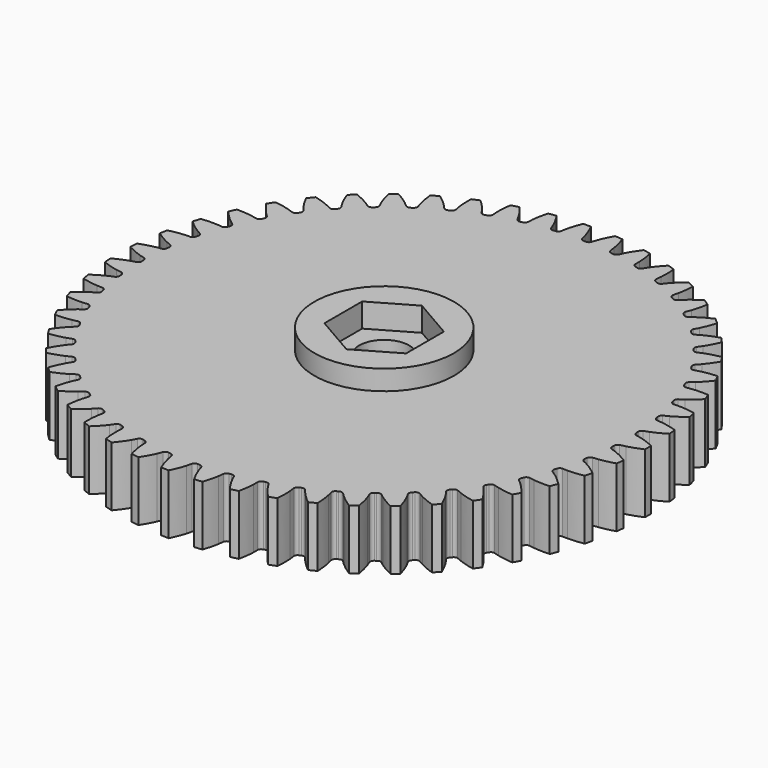
from build123d import *

# Parameters (mm, degrees)
PAD_DEPTH       = 6
SKETCH_R        = 7
PAD001_DEPTH    = 8
SKETCH001_R     = 2.5
POCKET_DEPTH    = 8.001
POCKET001_DEPTH = 2.4


with BuildPart() as part:
    # InvoluteGear → Pad (new body)
    with BuildSketch(Plane.XY):
        with BuildLine():
            add(Edge.make_bspline(
                [(24.477809, -1.042539), (24.623171, -1.01798), (24.796938, -0.982154), (24.997721, -0.930036)],
                knots=[0, 0, 0, 0, 1, 1, 1, 1], degree=3))
            add(Edge.make_bspline(
                [(24.997721, -0.930036), (25.39788, -0.826117), (25.903105, -0.658218), (26.497465, -0.388172)],
                knots=[0, 0, 0, 0, 1, 1, 1, 1], degree=3))
            ThreePointArc((26.497465, -0.388172), (26.500308, 0), (26.497465, 0.388172))
            add(Edge.make_bspline(
                [(26.497465, 0.388172), (25.903105, 0.658218), (25.39788, 0.826117), (24.997721, 0.930036)],
                knots=[0, 0, 0, 0, 1, 1, 1, 1], degree=3))
            add(Edge.make_bspline(
                [(24.997721, 0.930036), (24.796938, 0.982154), (24.623171, 1.01798), (24.477829, 1.042534)],
                knots=[0, 0, 0, 0, 1, 1, 1, 1], degree=3))
            ThreePointArc((24.477829, 1.042534), (24.284389, 1.177202), (24.209514, 1.400693))
            ThreePointArc((24.209514, 1.400693), (24.204006, 1.492852), (24.198147, 1.584989))
            ThreePointArc((24.198147, 1.584989), (24.244984, 1.815979), (24.420395, 1.973399))
            add(Edge.make_bspline(
                [(24.420395, 1.973399), (24.561638, 2.015635), (24.729685, 2.072543), (24.922541, 2.148941)],
                knots=[0, 0, 0, 0, 1, 1, 1, 1], degree=3))
            add(Edge.make_bspline(
                [(24.922541, 2.148941), (25.306897, 2.301247), (25.78766, 2.529959), (26.344329, 2.870998)],
                knots=[0, 0, 0, 0, 1, 1, 1, 1], degree=3))
            ThreePointArc((26.344329, 2.870998), (26.299449, 3.256578), (26.248926, 3.641458))
            add(Edge.make_bspline(
                [(26.248926, 3.641458), (25.625886, 3.836417), (25.103857, 3.940957), (24.69396, 3.994914)],
                knots=[0, 0, 0, 0, 1, 1, 1, 1], degree=3))
            add(Edge.make_bspline(
                [(24.69396, 3.994914), (24.488294, 4.021963), (24.311442, 4.036164), (24.164184, 4.042671)],
                knots=[0, 0, 0, 0, 1, 1, 1, 1], degree=3))
            ThreePointArc((24.164184, 4.042671), (23.955661, 4.152547), (23.853889, 4.365143))
            ThreePointArc((23.853889, 4.365143), (23.837098, 4.455926), (23.819961, 4.546645))
            ThreePointArc((23.819961, 4.546645), (23.838057, 4.781639), (23.992793, 4.959422))
            add(Edge.make_bspline(
                [(23.992793, 4.959422), (24.127775, 5.018695), (24.287555, 5.095823), (24.469562, 5.195341)],
                knots=[0, 0, 0, 0, 1, 1, 1, 1], degree=3))
            add(Edge.make_bspline(
                [(24.469562, 5.195341), (24.832287, 5.393726), (25.2813, 5.679785), (25.791841, 6.086647)],
                knots=[0, 0, 0, 0, 1, 1, 1, 1], degree=3))
            ThreePointArc((25.791841, 6.086647), (25.699918, 6.463789), (25.60248, 6.839543))
            add(Edge.make_bspline(
                [(25.60248, 6.839543), (24.960204, 6.95646), (24.429285, 6.996057), (24.015865, 6.999233)],
                knots=[0, 0, 0, 0, 1, 1, 1, 1], degree=3))
            add(Edge.make_bspline(
                [(24.015865, 6.999233), (23.808433, 7.000804), (23.631176, 6.993163), (23.484235, 6.981525)],
                knots=[0, 0, 0, 0, 1, 1, 1, 1], degree=3))
            ThreePointArc((23.484235, 6.981525), (23.26379, 7.064943), (23.136664, 7.263421))
            ThreePointArc((23.136664, 7.263421), (23.108844, 7.351452), (23.080688, 7.439378))
            ThreePointArc((23.080688, 7.439378), (23.069769, 7.674815), (23.201485, 7.870266))
            add(Edge.make_bspline(
                [(23.201485, 7.870266), (23.32816, 7.945677), (23.477251, 8.041855), (23.645648, 8.162986)],
                knots=[0, 0, 0, 0, 1, 1, 1, 1], degree=3))
            add(Edge.make_bspline(
                [(23.645648, 8.162986), (23.981245, 8.404442), (24.391702, 8.743511), (24.848374, 9.210029)],
                knots=[0, 0, 0, 0, 1, 1, 1, 1], degree=3))
            ThreePointArc((24.848374, 9.210029), (24.710801, 9.573015), (24.567926, 9.933948))
            add(Edge.make_bspline(
                [(24.567926, 9.933948), (23.91615, 9.971051), (23.38439, 9.945103), (22.973713, 9.897451)],
                knots=[0, 0, 0, 0, 1, 1, 1, 1], degree=3))
            add(Edge.make_bspline(
                [(22.973713, 9.897451), (22.767661, 9.873519), (22.592686, 9.844154), (22.448289, 9.814546)],
                knots=[0, 0, 0, 0, 1, 1, 1, 1], degree=3))
            ThreePointArc((22.448289, 9.814546), (22.219264, 9.870242), (22.068711, 10.051593))
            ThreePointArc((22.068711, 10.051593), (22.030283, 10.135538), (21.991536, 10.219337))
            ThreePointArc((21.991536, 10.219337), (21.951767, 10.451648), (22.058466, 10.661804))
            add(Edge.make_bspline(
                [(22.058466, 10.661804), (22.174914, 10.752211), (22.311055, 10.865981), (22.463291, 11.006888)],
                knots=[0, 0, 0, 0, 1, 1, 1, 1], degree=3))
            add(Edge.make_bspline(
                [(22.463291, 11.006888), (22.766672, 11.287755), (23.13235, 11.674694), (23.528231, 12.193796)],
                knots=[0, 0, 0, 0, 1, 1, 1, 1], degree=3))
            ThreePointArc((23.528231, 12.193796), (23.347095, 12.537125), (23.160948, 12.877764))
            add(Edge.make_bspline(
                [(23.160948, 12.877764), (22.509553, 12.83449), (21.985011, 12.743392), (21.583303, 12.645633)],
                knots=[0, 0, 0, 0, 1, 1, 1, 1], degree=3))
            add(Edge.make_bspline(
                [(21.583303, 12.645633), (21.381754, 12.596561), (21.211714, 12.545916), (21.07205, 12.498788)],
                knots=[0, 0, 0, 0, 1, 1, 1, 1], degree=3))
            ThreePointArc((21.07205, 12.498788), (20.837916, 12.525918), (20.666218, 12.687393))
            ThreePointArc((20.666218, 12.687393), (20.617766, 12.76598), (20.569014, 12.844382))
            ThreePointArc((20.569014, 12.844382), (20.500999, 13.070045), (20.581064, 13.29172))
            add(Edge.make_bspline(
                [(20.581064, 13.29172), (20.685518, 13.395752), (20.806647, 13.52539), (20.940413, 13.683937)],
                knots=[0, 0, 0, 0, 1, 1, 1, 1], degree=3))
            add(Edge.make_bspline(
                [(20.940413, 13.683937), (21.20698, 13.999957), (21.522335, 14.428901), (21.851425, 14.992717)],
                knots=[0, 0, 0, 0, 1, 1, 1, 1], degree=3))
            ThreePointArc((21.851425, 14.992717), (21.62947, 15.311185), (21.402873, 15.626367))
            add(Edge.make_bspline(
                [(21.402873, 15.626367), (20.761733, 15.503372), (20.252363, 15.348504), (19.865712, 15.202121)],
                knots=[0, 0, 0, 0, 1, 1, 1, 1], degree=3))
            add(Edge.make_bspline(
                [(19.865712, 15.202121), (19.671721, 15.128653), (19.509194, 15.057496), (19.37638, 14.993562)],
                knots=[0, 0, 0, 0, 1, 1, 1, 1], degree=3))
            ThreePointArc((19.37638, 14.993562), (19.140687, 14.991713), (18.950446, 15.130865))
            ThreePointArc((18.950446, 15.130865), (18.892704, 15.202902), (18.834688, 15.274719))
            ThreePointArc((18.834688, 15.274719), (18.739456, 15.490314), (18.791673, 15.720147))
            add(Edge.make_bspline(
                [(18.791673, 15.720147), (18.882552, 15.836227), (18.986831, 15.979768), (19.1001, 16.153551)],
                knots=[0, 0, 0, 0, 1, 1, 1, 1], degree=3))
            add(Edge.make_bspline(
                [(19.1001, 16.153551), (19.325811, 16.499933), (19.586064, 16.96438), (19.843373, 17.564364)],
                knots=[0, 0, 0, 0, 1, 1, 1, 1], degree=3))
            ThreePointArc((19.843373, 17.564364), (19.583964, 17.853142), (19.320353, 18.138089))
            add(Edge.make_bspline(
                [(19.320353, 18.138089), (18.699187, 17.937238), (18.212709, 17.720948), (17.846978, 17.52816)],
                knots=[0, 0, 0, 0, 1, 1, 1, 1], degree=3))
            add(Edge.make_bspline(
                [(17.846978, 17.52816), (17.663485, 17.43141), (17.510934, 17.340819), (17.386983, 17.261049)],
                knots=[0, 0, 0, 0, 1, 1, 1, 1], degree=3))
            ThreePointArc((17.386983, 17.261049), (17.153304, 17.23025), (16.947406, 17.344969))
            ThreePointArc((16.947406, 17.344969), (16.881248, 17.409364), (16.814846, 17.473507))
            ThreePointArc((16.814846, 17.473507), (16.693843, 17.675765), (16.717419, 17.910273))
            add(Edge.make_bspline(
                [(16.717419, 17.910273), (16.793345, 18.036641), (16.879194, 18.191909), (16.970248, 18.378294)],
                knots=[0, 0, 0, 0, 1, 1, 1, 1], degree=3))
            add(Edge.make_bspline(
                [(16.970248, 18.378294), (17.151682, 18.749788), (17.352888, 19.242697), (17.534515, 19.869753)],
                knots=[0, 0, 0, 0, 1, 1, 1, 1], degree=3))
            ThreePointArc((17.534515, 19.869753), (17.241585, 20.124464), (16.944956, 20.374857))
            add(Edge.make_bspline(
                [(16.944956, 20.374857), (16.35318, 20.099194), (15.896968, 19.824761), (15.557701, 19.58849)],
                knots=[0, 0, 0, 0, 1, 1, 1, 1], degree=3))
            add(Edge.make_bspline(
                [(15.557701, 19.58849), (15.387489, 19.469924), (15.247226, 19.361274), (15.134018, 19.266875)],
                knots=[0, 0, 0, 0, 1, 1, 1, 1], degree=3))
            ThreePointArc((15.134018, 19.266875), (14.905895, 19.207594), (14.687459, 19.29614))
            ThreePointArc((14.687459, 19.29614), (14.61389, 19.351918), (14.540109, 19.407415))
            ThreePointArc((14.540109, 19.407415), (14.395167, 19.593269), (14.389747, 19.828898))
            add(Edge.make_bspline(
                [(14.389747, 19.828898), (14.449568, 19.963637), (14.515686, 20.128279), (14.583145, 20.324441)],
                knots=[0, 0, 0, 0, 1, 1, 1, 1], degree=3))
            add(Edge.make_bspline(
                [(14.583145, 20.324441), (14.717552, 20.715415), (14.85666, 21.229314), (14.959853, 21.873937)],
                knots=[0, 0, 0, 0, 1, 1, 1, 1], degree=3))
            ThreePointArc((14.959853, 21.873937), (14.637842, 22.09072), (14.31269, 22.302763))
            add(Edge.make_bspline(
                [(14.31269, 22.302763), (13.759276, 21.956467), (13.340246, 21.628051), (13.032585, 21.351879)],
                knots=[0, 0, 0, 0, 1, 1, 1, 1], degree=3))
            add(Edge.make_bspline(
                [(13.032585, 21.351879), (12.878234, 21.213294), (12.752386, 21.088231), (12.651637, 20.980636)],
                knots=[0, 0, 0, 0, 1, 1, 1, 1], degree=3))
            ThreePointArc((12.651637, 20.980636), (12.432527, 20.89377), (12.204866, 20.954802))
            ThreePointArc((12.204866, 20.954802), (12.125, 21.001116), (12.044958, 21.047125))
            ThreePointArc((12.044958, 21.047125), (11.878276, 21.21376), (11.843941, 21.446936))
            add(Edge.make_bspline(
                [(11.843941, 21.446936), (11.88675, 21.588006), (11.932135, 21.759525), (11.974977, 21.962489)],
                knots=[0, 0, 0, 0, 1, 1, 1, 1], degree=3))
            add(Edge.make_bspline(
                [(11.974977, 21.962489), (12.060318, 22.367018), (12.13522, 22.894116), (12.158414, 23.546535)],
                knots=[0, 0, 0, 0, 1, 1, 1, 1], degree=3))
            ThreePointArc((12.158414, 23.546535), (11.812204, 23.722103), (11.463459, 23.892581))
            add(Edge.make_bspline(
                [(11.463459, 23.892581), (10.956795, 23.480902), (10.5813, 23.103482), (10.309909, 22.791595)],
                knots=[0, 0, 0, 0, 1, 1, 1, 1], degree=3))
            add(Edge.make_bspline(
                [(10.309909, 22.791595), (10.173758, 22.635092), (10.064233, 22.495512), (9.977469, 22.376351)],
                knots=[0, 0, 0, 0, 1, 1, 1, 1], degree=3))
            ThreePointArc((9.977469, 22.376351), (9.770695, 22.263218), (9.53726, 22.295811))
            ThreePointArc((9.53726, 22.295811), (9.452307, 22.331959), (9.367218, 22.367783))
            ThreePointArc((9.367218, 22.367783), (9.181322, 22.512671), (9.118592, 22.739861))
            add(Edge.make_bspline(
                [(9.118592, 22.739861), (9.143742, 22.885122), (9.167705, 23.060918), (9.18528, 23.267609)],
                knots=[0, 0, 0, 0, 1, 1, 1, 1], degree=3))
            add(Edge.make_bspline(
                [(9.18528, 23.267609), (9.220263, 23.679559), (9.229822, 24.211867), (9.172666, 24.862191)],
                knots=[0, 0, 0, 0, 1, 1, 1, 1], degree=3))
            ThreePointArc((9.172666, 24.862191), (8.807505, 24.993883), (8.440453, 25.120212))
            add(Edge.make_bspline(
                [(8.440453, 25.120212), (7.98822, 24.64939), (7.661952, 24.228687), (7.430945, 23.885813)],
                knots=[0, 0, 0, 0, 1, 1, 1, 1], degree=3))
            add(Edge.make_bspline(
                [(7.430945, 23.885813), (7.315058, 23.713766), (7.223516, 23.561783), (7.152053, 23.432864)],
                knots=[0, 0, 0, 0, 1, 1, 1, 1], degree=3))
            ThreePointArc((7.152053, 23.432864), (6.96075, 23.295178), (6.725078, 23.298837))
            ThreePointArc((6.725078, 23.298837), (6.636328, 23.324272), (6.547481, 23.349368))
            ThreePointArc((6.547481, 23.349368), (6.345189, 23.470314), (6.255016, 23.688073))
            add(Edge.make_bspline(
                [(6.255016, 23.688073), (6.262123, 23.835323), (6.264301, 24.012732), (6.256343, 24.220016)],
                knots=[0, 0, 0, 0, 1, 1, 1, 1], degree=3))
            add(Edge.make_bspline(
                [(6.256343, 24.220016), (6.240437, 24.633142), (6.18451, 25.16259), (6.04787, 25.800961)],
                knots=[0, 0, 0, 0, 1, 1, 1, 1], degree=3))
            ThreePointArc((6.04787, 25.800961), (5.669293, 25.886781), (5.289499, 25.967047))
            add(Edge.make_bspline(
                [(5.289499, 25.967047), (4.898552, 25.444219), (4.626456, 24.98661), (4.439336, 24.617947)],
                knots=[0, 0, 0, 0, 1, 1, 1, 1], degree=3))
            add(Edge.make_bspline(
                [(4.439336, 24.617947), (4.345469, 24.432962), (4.273299, 24.270883), (4.21822, 24.134159)],
                knots=[0, 0, 0, 0, 1, 1, 1, 1], degree=3))
            ThreePointArc((4.21822, 24.134159), (4.045286, 23.974007), (3.810951, 23.948677))
            ThreePointArc((3.810951, 23.948677), (3.719748, 23.963013), (3.62849, 23.977001))
            ThreePointArc((3.62849, 23.977001), (3.412868, 24.07217), (3.296619, 24.277197))
            add(Edge.make_bspline(
                [(3.296619, 24.277197), (3.285577, 24.424205), (3.265937, 24.600537), (3.232567, 24.805272)],
                knots=[0, 0, 0, 0, 1, 1, 1, 1], degree=3))
            add(Edge.make_bspline(
                [(3.232567, 24.805272), (3.166013, 25.213313), (3.045447, 25.731874), (2.831394, 26.348615)],
                knots=[0, 0, 0, 0, 1, 1, 1, 1], degree=3))
            ThreePointArc((2.831394, 26.348615), (2.44514, 26.387262), (2.058361, 26.420247))
            add(Edge.make_bspline(
                [(2.058361, 26.420247), (1.734627, 25.85334), (1.520828, 25.365761), (1.38043, 24.976898)],
                knots=[0, 0, 0, 0, 1, 1, 1, 1], degree=3))
            add(Edge.make_bspline(
                [(1.38043, 24.976898), (1.310008, 24.78178), (1.258302, 24.61206), (1.220442, 24.469604)],
                knots=[0, 0, 0, 0, 1, 1, 1, 1], degree=3))
            ThreePointArc((1.220442, 24.469604), (1.0685, 24.289415), (0.839054, 24.23548))
            ThreePointArc((0.839054, 24.23548), (0.74678, 24.238499), (0.654496, 24.241166))
            ThreePointArc((0.654496, 24.241166), (0.428813, 24.309117), (0.288249, 24.498304))
            add(Edge.make_bspline(
                [(0.288249, 24.498304), (0.259225, 24.642841), (0.218065, 24.815423), (0.159788, 25.014505)],
                knots=[0, 0, 0, 0, 1, 1, 1, 1], degree=3))
            add(Edge.make_bspline(
                [(0.159788, 25.014505), (0.043596, 25.411274), (-0.139782, 25.91109), (-0.428003, 26.496851)],
                knots=[0, 0, 0, 0, 1, 1, 1, 1], degree=3))
            ThreePointArc((-0.428003, 26.496851), (-0.816079, 26.487739), (-1.203979, 26.472944))
            add(Edge.make_bspline(
                [(-1.203979, 26.472944), (-1.455593, 25.87055), (-1.607854, 25.360394), (-1.699401, 24.957224)],
                knots=[0, 0, 0, 0, 1, 1, 1, 1], degree=3))
            add(Edge.make_bspline(
                [(-1.699401, 24.957224), (-1.745312, 24.754932), (-1.775769, 24.580144), (-1.795836, 24.434115)],
                knots=[0, 0, 0, 0, 1, 1, 1, 1], degree=3))
            ThreePointArc((-1.795836, 24.434115), (-1.924483, 24.236619), (-2.145562, 24.154897))
            ThreePointArc((-2.145562, 24.154897), (-2.237508, 24.146554), (-2.329421, 24.13786))
            ThreePointArc((-2.329421, 24.13786), (-2.561743, 24.177562), (-2.724491, 24.348042))
            add(Edge.make_bspline(
                [(-2.724491, 24.348042), (-2.771056, 24.487917), (-2.833112, 24.654132), (-2.915413, 24.844544)],
                knots=[0, 0, 0, 0, 1, 1, 1, 1], degree=3))
            add(Edge.make_bspline(
                [(-2.915413, 24.844544), (-3.079483, 25.224027), (-3.322892, 25.697519), (-3.680912, 26.243422)],
                knots=[0, 0, 0, 0, 1, 1, 1, 1], degree=3))
            ThreePointArc((-3.680912, 26.243422), (-4.064926, 26.186689), (-4.448068, 26.124338))
            add(Edge.make_bspline(
                [(-4.448068, 26.124338), (-4.623748, 25.495589), (-4.712163, 24.970588), (-4.753471, 24.559225)],
                knots=[0, 0, 0, 0, 1, 1, 1, 1], degree=3))
            add(Edge.make_bspline(
                [(-4.753471, 24.559225), (-4.774174, 24.352823), (-4.782922, 24.175618), (-4.784891, 24.02823)],
                knots=[0, 0, 0, 0, 1, 1, 1, 1], degree=3))
            ThreePointArc((-4.784891, 24.02823), (-4.888293, 23.816422), (-5.097654, 23.708151))
            ThreePointArc((-5.097654, 23.708151), (-5.187877, 23.688572), (-5.278025, 23.668649))
            ThreePointArc((-5.278025, 23.668649), (-5.513466, 23.679501), (-5.69593, 23.828688))
            add(Edge.make_bspline(
                [(-5.69593, 23.828688), (-5.759331, 23.961781), (-5.841343, 24.11911), (-5.946419, 24.297965)],
                knots=[0, 0, 0, 0, 1, 1, 1, 1], degree=3))
            add(Edge.make_bspline(
                [(-5.946419, 24.297965), (-6.15588, 24.65441), (-6.45563, 25.094401), (-6.878022, 25.59217)],
                knots=[0, 0, 0, 0, 1, 1, 1, 1], degree=3))
            ThreePointArc((-6.878022, 25.59217), (-7.252154, 25.488676), (-7.624729, 25.379713))
            add(Edge.make_bspline(
                [(-7.624729, 25.379713), (-7.721812, 24.734141), (-7.74504, 24.202255), (-7.735483, 23.788933)],
                knots=[0, 0, 0, 0, 1, 1, 1, 1], degree=3))
            add(Edge.make_bspline(
                [(-7.735483, 23.788933), (-7.730665, 23.581551), (-7.71757, 23.404614), (-7.701412, 23.258101)],
                knots=[0, 0, 0, 0, 1, 1, 1, 1], degree=3))
            ThreePointArc((-7.701412, 23.258101), (-7.778002, 23.035191), (-7.972471, 22.902013))
            ThreePointArc((-7.972471, 22.902013), (-8.059604, 22.871495), (-8.14662, 22.840645))
            ThreePointArc((-8.14662, 22.840645), (-8.38161, 22.822482), (-8.581024, 22.948116))
            add(Edge.make_bspline(
                [(-8.581024, 22.948116), (-8.660301, 23.072408), (-8.761025, 23.218467), (-8.887283, 23.383054)],
                knots=[0, 0, 0, 0, 1, 1, 1, 1], degree=3))
            add(Edge.make_bspline(
                [(-8.887283, 23.383054), (-9.138959, 23.711056), (-9.490508, 24.110876), (-9.970868, 24.552966)],
                knots=[0, 0, 0, 0, 1, 1, 1, 1], degree=3))
            ThreePointArc((-9.970868, 24.552966), (-10.329446, 24.40428), (-10.685807, 24.250358))
            add(Edge.make_bspline(
                [(-10.685807, 24.250358), (-10.702821, 23.597748), (-10.66051, 23.067039), (-10.600233, 22.658024)],
                knots=[0, 0, 0, 0, 1, 1, 1, 1], degree=3))
            add(Edge.make_bspline(
                [(-10.600233, 22.658024), (-10.569967, 22.452807), (-10.535228, 22.27882), (-10.501187, 22.135403)],
                knots=[0, 0, 0, 0, 1, 1, 1, 1], degree=3))
            ThreePointArc((-10.501187, 22.135403), (-10.549804, 21.904771), (-10.726433, 21.748704))
            ThreePointArc((-10.726433, 21.748704), (-10.809155, 21.70771), (-10.891721, 21.666401))
            ThreePointArc((-10.891721, 21.666401), (-11.122697, 21.619497), (-11.336039, 21.719674))
            add(Edge.make_bspline(
                [(-11.336039, 21.719674), (-11.429989, 21.833282), (-11.547898, 21.965855), (-11.693426, 22.113679)],
                knots=[0, 0, 0, 0, 1, 1, 1, 1], degree=3))
            add(Edge.make_bspline(
                [(-11.693426, 22.113679), (-11.983502, 22.408267), (-12.381519, 22.761856), (-12.912566, 23.141564)],
                knots=[0, 0, 0, 0, 1, 1, 1, 1], degree=3))
            ThreePointArc((-12.912566, 23.141564), (-13.250154, 22.94994), (-13.584899, 22.753392))
            add(Edge.make_bspline(
                [(-13.584899, 22.753392), (-13.521586, 22.103638), (-13.414378, 21.582151), (-13.304295, 21.183643)],
                knots=[0, 0, 0, 0, 1, 1, 1, 1], degree=3))
            add(Edge.make_bspline(
                [(-13.304295, 21.183643), (-13.24904, 20.983701), (-13.193182, 20.815301), (-13.141775, 20.677155)],
                knots=[0, 0, 0, 0, 1, 1, 1, 1], degree=3))
            ThreePointArc((-13.141775, 20.677155), (-13.161682, 20.442297), (-13.317793, 20.265707))
            ThreePointArc((-13.317793, 20.265707), (-13.394851, 20.214858), (-13.471714, 20.163715))
            ThreePointArc((-13.471714, 20.163715), (-13.695176, 20.088783), (-13.919211, 20.161983))
            add(Edge.make_bspline(
                [(-13.919211, 20.161983), (-14.02641, 20.263185), (-14.159717, 20.380264), (-14.322308, 20.509084)],
                knots=[0, 0, 0, 0, 1, 1, 1, 1], degree=3))
            add(Edge.make_bspline(
                [(-14.322308, 20.509084), (-14.646387, 20.765792), (-15.084839, 21.067789), (-15.658522, 21.379359)],
                knots=[0, 0, 0, 0, 1, 1, 1, 1], degree=3))
            ThreePointArc((-15.658522, 21.379359), (-15.970004, 21.147702), (-16.278058, 20.911508))
            add(Edge.make_bspline(
                [(-16.278058, 20.911508), (-16.135377, 20.274459), (-15.964897, 19.770099), (-15.806677, 19.38814)],
                knots=[0, 0, 0, 0, 1, 1, 1, 1], degree=3))
            add(Edge.make_bspline(
                [(-15.806677, 19.38814), (-15.72727, 19.196503), (-15.651141, 19.036244), (-15.583148, 18.905462)],
                knots=[0, 0, 0, 0, 1, 1, 1, 1], degree=3))
            ThreePointArc((-15.583148, 18.905462), (-15.574042, 18.669938), (-15.707269, 18.475503))
            ThreePointArc((-15.707269, 18.475503), (-15.777494, 18.415569), (-15.84749, 18.355369))
            ThreePointArc((-15.84749, 18.355369), (-16.06005, 18.253544), (-16.291382, 18.298657))
            add(Edge.make_bspline(
                [(-16.291382, 18.298657), (-16.410205, 18.385919), (-16.55689, 18.485728), (-16.734078, 18.593591)],
                knots=[0, 0, 0, 0, 1, 1, 1, 1], degree=3))
            add(Edge.make_bspline(
                [(-16.734078, 18.593591), (-17.087247, 18.808529), (-17.559488, 19.054356), (-18.167112, 19.293066)],
                knots=[0, 0, 0, 0, 1, 1, 1, 1], degree=3))
            ThreePointArc((-18.167112, 19.293066), (-18.447764, 19.024887), (-18.724458, 18.752626))
            add(Edge.make_bspline(
                [(-18.724458, 18.752626), (-18.504573, 18.13794), (-18.273405, 17.658353), (-18.069446, 17.298732)],
                knots=[0, 0, 0, 0, 1, 1, 1, 1], degree=3))
            add(Edge.make_bspline(
                [(-18.069446, 17.298732), (-17.96709, 17.118306), (-17.871845, 16.968617), (-17.788295, 16.847182)],
                knots=[0, 0, 0, 0, 1, 1, 1, 1], degree=3))
            ThreePointArc((-17.788295, 16.847182), (-17.750315, 16.614562), (-17.858639, 16.405228))
            ThreePointArc((-17.858639, 16.405228), (-17.920966, 16.337119), (-17.983034, 16.268773))
            ThreePointArc((-17.983034, 16.268773), (-18.181469, 16.141599), (-18.416593, 16.157943))
            add(Edge.make_bspline(
                [(-18.416593, 16.157943), (-18.545238, 16.229941), (-18.703077, 16.310968), (-18.892177, 16.396239)],
                knots=[0, 0, 0, 0, 1, 1, 1, 1], degree=3))
            add(Edge.make_bspline(
                [(-18.892177, 16.396239), (-19.269083, 16.566147), (-19.767954, 16.752078), (-20.400306, 16.914309)],
                knots=[0, 0, 0, 0, 1, 1, 1, 1], degree=3))
            ThreePointArc((-20.400306, 16.914309), (-20.645875, 16.613674), (-20.887014, 16.309474))
            add(Edge.make_bspline(
                [(-20.887014, 16.309474), (-20.593258, 15.726469), (-20.304907, 15.278924), (-20.0583, 14.947094)],
                knots=[0, 0, 0, 0, 1, 1, 1, 1], degree=3))
            add(Edge.make_bspline(
                [(-20.0583, 14.947094), (-19.934548, 14.780613), (-19.82163, 14.643763), (-19.723791, 14.533516)],
                knots=[0, 0, 0, 0, 1, 1, 1, 1], degree=3))
            ThreePointArc((-19.723791, 14.533516), (-19.657512, 14.307326), (-19.73929, 14.086268))
            ThreePointArc((-19.73929, 14.086268), (-19.792775, 14.011015), (-19.845973, 13.93556))
            ThreePointArc((-19.845973, 13.93556), (-20.027277, 13.784964), (-20.262626, 13.77229))
            add(Edge.make_bspline(
                [(-20.262626, 13.77229), (-20.399144, 13.827933), (-20.565744, 13.88895), (-20.76389, 13.950337)],
                knots=[0, 0, 0, 0, 1, 1, 1, 1], degree=3))
            add(Edge.make_bspline(
                [(-20.76389, 13.950337), (-21.158818, 14.072639), (-21.676757, 14.195856), (-22.324253, 14.279148)],
                knots=[0, 0, 0, 0, 1, 1, 1, 1], degree=3))
            ThreePointArc((-22.324253, 14.279148), (-22.531016, 13.950614), (-22.732945, 13.619087))
            add(Edge.make_bspline(
                [(-22.732945, 13.619087), (-22.369771, 13.0766), (-22.028607, 12.667882), (-21.743091, 12.368872)],
                knots=[0, 0, 0, 0, 1, 1, 1, 1], degree=3))
            add(Edge.make_bspline(
                [(-21.743091, 12.368872), (-21.599819, 12.218861), (-21.470939, 12.096925), (-21.360293, 11.999536)],
                knots=[0, 0, 0, 0, 1, 1, 1, 1], degree=3))
            ThreePointArc((-21.360293, 11.999536), (-21.266721, 11.783206), (-21.320713, 11.553773))
            ThreePointArc((-21.320713, 11.553773), (-21.364546, 11.472519), (-21.408068, 11.391098))
            ThreePointArc((-21.408068, 11.391098), (-21.569491, 11.219363), (-21.801499, 11.177864))
            add(Edge.make_bspline(
                [(-21.801499, 11.177864), (-21.94382, 11.216309), (-22.116655, 11.25639), (-22.320843, 11.292961)],
                knots=[0, 0, 0, 0, 1, 1, 1, 1], degree=3))
            add(Edge.make_bspline(
                [(-22.320843, 11.292961), (-22.727808, 11.365805), (-23.256962, 11.424439), (-23.909786, 11.42753)],
                knots=[0, 0, 0, 0, 1, 1, 1, 1], degree=3))
            ThreePointArc((-23.909786, 11.42753), (-24.07461, 11.076078), (-24.234267, 10.722249))
            add(Edge.make_bspline(
                [(-24.234267, 10.722249), (-23.80718, 10.228503), (-23.418376, 9.864808), (-23.098279, 9.603151)],
                knots=[0, 0, 0, 0, 1, 1, 1, 1], degree=3))
            add(Edge.make_bspline(
                [(-23.098279, 9.603151), (-22.937658, 9.471884), (-22.794771, 9.366709), (-22.672996, 9.283656)],
                knots=[0, 0, 0, 0, 1, 1, 1, 1], degree=3))
            ThreePointArc((-22.672996, 9.283656), (-22.553548, 9.080464), (-22.578937, 8.846136))
            ThreePointArc((-22.578937, 8.846136), (-22.612452, 8.76011), (-22.645639, 8.673958))
            ThreePointArc((-22.645639, 8.673958), (-22.784733, 8.483688), (-23.009883, 8.413992))
            add(Edge.make_bspline(
                [(-23.009883, 8.413992), (-23.15585, 8.434656), (-23.332301, 8.453194), (-23.539435, 8.464396)],
                knots=[0, 0, 0, 0, 1, 1, 1, 1], degree=3))
            add(Edge.make_bspline(
                [(-23.539435, 8.464396), (-23.952267, 8.486676), (-24.484616, 8.479839), (-25.132872, 8.402683)],
                knots=[0, 0, 0, 0, 1, 1, 1, 1], degree=3))
            ThreePointArc((-25.132872, 8.402683), (-25.253257, 8.033639), (-25.368223, 7.662872))
            add(Edge.make_bspline(
                [(-25.368223, 7.662872), (-24.883697, 7.225352), (-24.453146, 6.912194), (-24.103321, 6.691856)],
                knots=[0, 0, 0, 0, 1, 1, 1, 1], degree=3))
            add(Edge.make_bspline(
                [(-24.103321, 6.691856), (-23.927786, 6.581322), (-23.773057, 6.494504), (-23.641998, 6.427045)],
                knots=[0, 0, 0, 0, 1, 1, 1, 1], degree=3))
            ThreePointArc((-23.641998, 6.427045), (-23.498486, 6.240072), (-23.494886, 6.004399))
            ThreePointArc((-23.494886, 6.004399), (-23.517576, 5.914908), (-23.539924, 5.82533))
            ThreePointArc((-23.539924, 5.82533), (-23.654583, 5.619409), (-23.869461, 5.522573))
            add(Edge.make_bspline(
                [(-23.869461, 5.522573), (-24.016861, 5.525143), (-24.194252, 5.521857), (-24.401194, 5.507519)],
                knots=[0, 0, 0, 0, 1, 1, 1, 1], degree=3))
            add(Edge.make_bspline(
                [(-24.401194, 5.507519), (-24.813634, 5.478899), (-25.341108, 5.406693), (-25.974969, 5.250459)],
                knots=[0, 0, 0, 0, 1, 1, 1, 1], degree=3))
            ThreePointArc((-25.974969, 5.250459), (-26.04909, 4.869419), (-26.117622, 4.487334))
            add(Edge.make_bspline(
                [(-26.117622, 4.487334), (-25.583003, 4.112673), (-25.117231, 3.854798), (-24.742981, 3.679119)],
                knots=[0, 0, 0, 0, 1, 1, 1, 1], degree=3))
            add(Edge.make_bspline(
                [(-24.742981, 3.679119), (-24.555193, 3.590994), (-24.390968, 3.523849), (-24.252613, 3.473006)],
                knots=[0, 0, 0, 0, 1, 1, 1, 1], degree=3))
            ThreePointArc((-24.252613, 3.473006), (-24.087212, 3.305087), (-24.054678, 3.071643))
            ThreePointArc((-24.054678, 3.071643), (-24.066197, 2.980041), (-24.077368, 2.888396))
            ThreePointArc((-24.077368, 2.888396), (-24.165853, 2.669946), (-24.367203, 2.547438))
            add(Edge.make_bspline(
                [(-24.367203, 2.547438), (-24.513801, 2.531874), (-24.689444, 2.506814), (-24.893055, 2.467154)],
                knots=[0, 0, 0, 0, 1, 1, 1, 1], degree=3))
            add(Edge.make_bspline(
                [(-24.893055, 2.467154), (-25.298852, 2.388066), (-25.813455, 2.251588), (-26.423312, 2.018644)],
                knots=[0, 0, 0, 0, 1, 1, 1, 1], degree=3))
            ThreePointArc((-26.423312, 2.018644), (-26.450046, 1.631383), (-26.471104, 1.243772))
            add(Edge.make_bspline(
                [(-26.471104, 1.243772), (-25.894496, 0.937649), (-25.400565, 0.738967), (-25.007562, 0.610611)],
                knots=[0, 0, 0, 0, 1, 1, 1, 1], degree=3))
            add(Edge.make_bspline(
                [(-25.007562, 0.610611), (-24.810368, 0.54623), (-24.639137, 0.499775), (-24.495582, 0.466321)],
                knots=[0, 0, 0, 0, 1, 1, 1, 1], degree=3))
            ThreePointArc((-24.495582, 0.466321), (-24.310799, 0.32), (-24.249824, 0.092323))
            ThreePointArc((-24.249824, 0.092323), (-24.25, 0), (-24.249824, -0.092323))
            ThreePointArc((-24.249824, -0.092323), (-24.310793, -0.319991), (-24.495562, -0.466314))
            add(Edge.make_bspline(
                [(-24.495562, -0.466314), (-24.639137, -0.499775), (-24.810368, -0.54623), (-25.007562, -0.610611)],
                knots=[0, 0, 0, 0, 1, 1, 1, 1], degree=3))
            add(Edge.make_bspline(
                [(-25.007562, -0.610611), (-25.400565, -0.738967), (-25.894496, -0.937649), (-26.471104, -1.243772)],
                knots=[0, 0, 0, 0, 1, 1, 1, 1], degree=3))
            ThreePointArc((-26.471104, -1.243772), (-26.450046, -1.631383), (-26.423312, -2.018644))
            add(Edge.make_bspline(
                [(-26.423312, -2.018644), (-25.813455, -2.251588), (-25.298852, -2.388066), (-24.893055, -2.467154)],
                knots=[0, 0, 0, 0, 1, 1, 1, 1], degree=3))
            add(Edge.make_bspline(
                [(-24.893055, -2.467154), (-24.689444, -2.506814), (-24.513801, -2.531874), (-24.367223, -2.547434)],
                knots=[0, 0, 0, 0, 1, 1, 1, 1], degree=3))
            ThreePointArc((-24.367223, -2.547434), (-24.16586, -2.669938), (-24.077368, -2.888396))
            ThreePointArc((-24.077368, -2.888396), (-24.066197, -2.980041), (-24.054678, -3.071643))
            ThreePointArc((-24.054678, -3.071643), (-24.087206, -3.305078), (-24.252593, -3.472998))
            add(Edge.make_bspline(
                [(-24.252593, -3.472998), (-24.390968, -3.523849), (-24.555193, -3.590994), (-24.742981, -3.679119)],
                knots=[0, 0, 0, 0, 1, 1, 1, 1], degree=3))
            add(Edge.make_bspline(
                [(-24.742981, -3.679119), (-25.117231, -3.854798), (-25.583003, -4.112673), (-26.117622, -4.487334)],
                knots=[0, 0, 0, 0, 1, 1, 1, 1], degree=3))
            ThreePointArc((-26.117622, -4.487334), (-26.04909, -4.869419), (-25.974969, -5.250459))
            add(Edge.make_bspline(
                [(-25.974969, -5.250459), (-25.341108, -5.406693), (-24.813634, -5.478899), (-24.401194, -5.507519)],
                knots=[0, 0, 0, 0, 1, 1, 1, 1], degree=3))
            add(Edge.make_bspline(
                [(-24.401194, -5.507519), (-24.194252, -5.521857), (-24.016861, -5.525143), (-23.869482, -5.522572)],
                knots=[0, 0, 0, 0, 1, 1, 1, 1], degree=3))
            ThreePointArc((-23.869482, -5.522572), (-23.654591, -5.619403), (-23.539924, -5.82533))
            ThreePointArc((-23.539924, -5.82533), (-23.517576, -5.914908), (-23.494886, -6.004399))
            ThreePointArc((-23.494886, -6.004399), (-23.498482, -6.240062), (-23.64198, -6.427034))
            add(Edge.make_bspline(
                [(-23.64198, -6.427034), (-23.773057, -6.494504), (-23.927786, -6.581322), (-24.103321, -6.691856)],
                knots=[0, 0, 0, 0, 1, 1, 1, 1], degree=3))
            add(Edge.make_bspline(
                [(-24.103321, -6.691856), (-24.453146, -6.912194), (-24.883697, -7.225352), (-25.368223, -7.662872)],
                knots=[0, 0, 0, 0, 1, 1, 1, 1], degree=3))
            ThreePointArc((-25.368223, -7.662872), (-25.253257, -8.033639), (-25.132872, -8.402683))
            add(Edge.make_bspline(
                [(-25.132872, -8.402683), (-24.484616, -8.479839), (-23.952267, -8.486676), (-23.539435, -8.464396)],
                knots=[0, 0, 0, 0, 1, 1, 1, 1], degree=3))
            add(Edge.make_bspline(
                [(-23.539435, -8.464396), (-23.332301, -8.453194), (-23.15585, -8.434656), (-23.009904, -8.413994)],
                knots=[0, 0, 0, 0, 1, 1, 1, 1], degree=3))
            ThreePointArc((-23.009904, -8.413994), (-22.784742, -8.483683), (-22.645639, -8.673958))
            ThreePointArc((-22.645639, -8.673958), (-22.612452, -8.76011), (-22.578937, -8.846136))
            ThreePointArc((-22.578937, -8.846136), (-22.553545, -9.080454), (-22.672979, -9.283643))
            add(Edge.make_bspline(
                [(-22.672979, -9.283643), (-22.794771, -9.366709), (-22.937658, -9.471884), (-23.098279, -9.603151)],
                knots=[0, 0, 0, 0, 1, 1, 1, 1], degree=3))
            add(Edge.make_bspline(
                [(-23.098279, -9.603151), (-23.418376, -9.864808), (-23.80718, -10.228503), (-24.234267, -10.722249)],
                knots=[0, 0, 0, 0, 1, 1, 1, 1], degree=3))
            ThreePointArc((-24.234267, -10.722249), (-24.07461, -11.076078), (-23.909786, -11.42753))
            add(Edge.make_bspline(
                [(-23.909786, -11.42753), (-23.256962, -11.424439), (-22.727808, -11.365805), (-22.320843, -11.292961)],
                knots=[0, 0, 0, 0, 1, 1, 1, 1], degree=3))
            add(Edge.make_bspline(
                [(-22.320843, -11.292961), (-22.116655, -11.25639), (-21.94382, -11.216309), (-21.80152, -11.177868)],
                knots=[0, 0, 0, 0, 1, 1, 1, 1], degree=3))
            ThreePointArc((-21.80152, -11.177868), (-21.5695, -11.219359), (-21.408068, -11.391098))
            ThreePointArc((-21.408068, -11.391098), (-21.364546, -11.472519), (-21.320713, -11.553773))
            ThreePointArc((-21.320713, -11.553773), (-21.266719, -11.783196), (-21.360278, -11.999521))
            add(Edge.make_bspline(
                [(-21.360278, -11.999521), (-21.470939, -12.096925), (-21.599819, -12.218861), (-21.743091, -12.368872)],
                knots=[0, 0, 0, 0, 1, 1, 1, 1], degree=3))
            add(Edge.make_bspline(
                [(-21.743091, -12.368872), (-22.028607, -12.667882), (-22.369771, -13.0766), (-22.732945, -13.619087)],
                knots=[0, 0, 0, 0, 1, 1, 1, 1], degree=3))
            ThreePointArc((-22.732945, -13.619087), (-22.531016, -13.950614), (-22.324253, -14.279148))
            add(Edge.make_bspline(
                [(-22.324253, -14.279148), (-21.676757, -14.195856), (-21.158818, -14.072639), (-20.76389, -13.950337)],
                knots=[0, 0, 0, 0, 1, 1, 1, 1], degree=3))
            add(Edge.make_bspline(
                [(-20.76389, -13.950337), (-20.565744, -13.88895), (-20.399144, -13.827933), (-20.262646, -13.772297)],
                knots=[0, 0, 0, 0, 1, 1, 1, 1], degree=3))
            ThreePointArc((-20.262646, -13.772297), (-20.027287, -13.784961), (-19.845973, -13.93556))
            ThreePointArc((-19.845973, -13.93556), (-19.792775, -14.011015), (-19.73929, -14.086268))
            ThreePointArc((-19.73929, -14.086268), (-19.657512, -14.307316), (-19.723778, -14.533499))
            add(Edge.make_bspline(
                [(-19.723778, -14.533499), (-19.82163, -14.643763), (-19.934548, -14.780613), (-20.0583, -14.947094)],
                knots=[0, 0, 0, 0, 1, 1, 1, 1], degree=3))
            add(Edge.make_bspline(
                [(-20.0583, -14.947094), (-20.304907, -15.278924), (-20.593258, -15.726469), (-20.887014, -16.309474)],
                knots=[0, 0, 0, 0, 1, 1, 1, 1], degree=3))
            ThreePointArc((-20.887014, -16.309474), (-20.645875, -16.613674), (-20.400306, -16.914309))
            add(Edge.make_bspline(
                [(-20.400306, -16.914309), (-19.767954, -16.752078), (-19.269083, -16.566147), (-18.892177, -16.396239)],
                knots=[0, 0, 0, 0, 1, 1, 1, 1], degree=3))
            add(Edge.make_bspline(
                [(-18.892177, -16.396239), (-18.703077, -16.310968), (-18.545238, -16.229941), (-18.416612, -16.157952)],
                knots=[0, 0, 0, 0, 1, 1, 1, 1], degree=3))
            ThreePointArc((-18.416612, -16.157952), (-18.18148, -16.141597), (-17.983034, -16.268773))
            ThreePointArc((-17.983034, -16.268773), (-17.920966, -16.337119), (-17.858639, -16.405228))
            ThreePointArc((-17.858639, -16.405228), (-17.750316, -16.614552), (-17.788285, -16.847164))
            add(Edge.make_bspline(
                [(-17.788285, -16.847164), (-17.871845, -16.968617), (-17.96709, -17.118306), (-18.069446, -17.298732)],
                knots=[0, 0, 0, 0, 1, 1, 1, 1], degree=3))
            add(Edge.make_bspline(
                [(-18.069446, -17.298732), (-18.273405, -17.658353), (-18.504573, -18.13794), (-18.724458, -18.752626)],
                knots=[0, 0, 0, 0, 1, 1, 1, 1], degree=3))
            ThreePointArc((-18.724458, -18.752626), (-18.447764, -19.024887), (-18.167112, -19.293066))
            add(Edge.make_bspline(
                [(-18.167112, -19.293066), (-17.559488, -19.054356), (-17.087247, -18.808529), (-16.734078, -18.593591)],
                knots=[0, 0, 0, 0, 1, 1, 1, 1], degree=3))
            add(Edge.make_bspline(
                [(-16.734078, -18.593591), (-16.55689, -18.485728), (-16.410205, -18.385919), (-16.2914, -18.298669)],
                knots=[0, 0, 0, 0, 1, 1, 1, 1], degree=3))
            ThreePointArc((-16.2914, -18.298669), (-16.06006, -18.253543), (-15.84749, -18.355369))
            ThreePointArc((-15.84749, -18.355369), (-15.777494, -18.415569), (-15.707269, -18.475503))
            ThreePointArc((-15.707269, -18.475503), (-15.574044, -18.669928), (-15.583139, -18.905443))
            add(Edge.make_bspline(
                [(-15.583139, -18.905443), (-15.651141, -19.036244), (-15.72727, -19.196503), (-15.806677, -19.38814)],
                knots=[0, 0, 0, 0, 1, 1, 1, 1], degree=3))
            add(Edge.make_bspline(
                [(-15.806677, -19.38814), (-15.964897, -19.770099), (-16.135377, -20.274459), (-16.278058, -20.911508)],
                knots=[0, 0, 0, 0, 1, 1, 1, 1], degree=3))
            ThreePointArc((-16.278058, -20.911508), (-15.970004, -21.147702), (-15.658522, -21.379359))
            add(Edge.make_bspline(
                [(-15.658522, -21.379359), (-15.084839, -21.067789), (-14.646387, -20.765792), (-14.322308, -20.509084)],
                knots=[0, 0, 0, 0, 1, 1, 1, 1], degree=3))
            add(Edge.make_bspline(
                [(-14.322308, -20.509084), (-14.159717, -20.380264), (-14.02641, -20.263185), (-13.919228, -20.161996)],
                knots=[0, 0, 0, 0, 1, 1, 1, 1], degree=3))
            ThreePointArc((-13.919228, -20.161996), (-13.695186, -20.088784), (-13.471714, -20.163715))
            ThreePointArc((-13.471714, -20.163715), (-13.394851, -20.214858), (-13.317793, -20.265707))
            ThreePointArc((-13.317793, -20.265707), (-13.161685, -20.442287), (-13.14177, -20.677135))
            add(Edge.make_bspline(
                [(-13.14177, -20.677135), (-13.193182, -20.815301), (-13.24904, -20.983701), (-13.304295, -21.183643)],
                knots=[0, 0, 0, 0, 1, 1, 1, 1], degree=3))
            add(Edge.make_bspline(
                [(-13.304295, -21.183643), (-13.414378, -21.582151), (-13.521586, -22.103638), (-13.584899, -22.753392)],
                knots=[0, 0, 0, 0, 1, 1, 1, 1], degree=3))
            ThreePointArc((-13.584899, -22.753392), (-13.250154, -22.94994), (-12.912566, -23.141564))
            add(Edge.make_bspline(
                [(-12.912566, -23.141564), (-12.381519, -22.761856), (-11.983502, -22.408267), (-11.693426, -22.113679)],
                knots=[0, 0, 0, 0, 1, 1, 1, 1], degree=3))
            add(Edge.make_bspline(
                [(-11.693426, -22.113679), (-11.547898, -21.965855), (-11.429989, -21.833282), (-11.336054, -21.719689)],
                knots=[0, 0, 0, 0, 1, 1, 1, 1], degree=3))
            ThreePointArc((-11.336054, -21.719689), (-11.122708, -21.619499), (-10.891721, -21.666401))
            ThreePointArc((-10.891721, -21.666401), (-10.809155, -21.70771), (-10.726433, -21.748704))
            ThreePointArc((-10.726433, -21.748704), (-10.549808, -21.904762), (-10.501184, -22.135382))
            add(Edge.make_bspline(
                [(-10.501184, -22.135382), (-10.535228, -22.27882), (-10.569967, -22.452807), (-10.600233, -22.658024)],
                knots=[0, 0, 0, 0, 1, 1, 1, 1], degree=3))
            add(Edge.make_bspline(
                [(-10.600233, -22.658024), (-10.66051, -23.067039), (-10.702821, -23.597748), (-10.685807, -24.250358)],
                knots=[0, 0, 0, 0, 1, 1, 1, 1], degree=3))
            ThreePointArc((-10.685807, -24.250358), (-10.329446, -24.40428), (-9.970868, -24.552966))
            add(Edge.make_bspline(
                [(-9.970868, -24.552966), (-9.490508, -24.110876), (-9.138959, -23.711056), (-8.887283, -23.383054)],
                knots=[0, 0, 0, 0, 1, 1, 1, 1], degree=3))
            add(Edge.make_bspline(
                [(-8.887283, -23.383054), (-8.761025, -23.218467), (-8.660301, -23.072408), (-8.581037, -22.948133)],
                knots=[0, 0, 0, 0, 1, 1, 1, 1], degree=3))
            ThreePointArc((-8.581037, -22.948133), (-8.38162, -22.822485), (-8.14662, -22.840645))
            ThreePointArc((-8.14662, -22.840645), (-8.059604, -22.871495), (-7.972471, -22.902013))
            ThreePointArc((-7.972471, -22.902013), (-7.778008, -23.035183), (-7.701411, -23.25808))
            add(Edge.make_bspline(
                [(-7.701411, -23.25808), (-7.71757, -23.404614), (-7.730665, -23.581551), (-7.735483, -23.788933)],
                knots=[0, 0, 0, 0, 1, 1, 1, 1], degree=3))
            add(Edge.make_bspline(
                [(-7.735483, -23.788933), (-7.74504, -24.202255), (-7.721812, -24.734141), (-7.624729, -25.379713)],
                knots=[0, 0, 0, 0, 1, 1, 1, 1], degree=3))
            ThreePointArc((-7.624729, -25.379713), (-7.252154, -25.488676), (-6.878022, -25.59217))
            add(Edge.make_bspline(
                [(-6.878022, -25.59217), (-6.45563, -25.094401), (-6.15588, -24.65441), (-5.946419, -24.297965)],
                knots=[0, 0, 0, 0, 1, 1, 1, 1], degree=3))
            add(Edge.make_bspline(
                [(-5.946419, -24.297965), (-5.841343, -24.11911), (-5.759331, -23.961781), (-5.69594, -23.828707)],
                knots=[0, 0, 0, 0, 1, 1, 1, 1], degree=3))
            ThreePointArc((-5.69594, -23.828707), (-5.513475, -23.679505), (-5.278025, -23.668649))
            ThreePointArc((-5.278025, -23.668649), (-5.187877, -23.688572), (-5.097654, -23.708151))
            ThreePointArc((-5.097654, -23.708151), (-4.8883, -23.816414), (-4.784893, -24.028208))
            add(Edge.make_bspline(
                [(-4.784893, -24.028208), (-4.782922, -24.175618), (-4.774174, -24.352823), (-4.753471, -24.559225)],
                knots=[0, 0, 0, 0, 1, 1, 1, 1], degree=3))
            add(Edge.make_bspline(
                [(-4.753471, -24.559225), (-4.712163, -24.970588), (-4.623748, -25.495589), (-4.448068, -26.124338)],
                knots=[0, 0, 0, 0, 1, 1, 1, 1], degree=3))
            ThreePointArc((-4.448068, -26.124338), (-4.064926, -26.186689), (-3.680912, -26.243422))
            add(Edge.make_bspline(
                [(-3.680912, -26.243422), (-3.322892, -25.697519), (-3.079483, -25.224027), (-2.915413, -24.844544)],
                knots=[0, 0, 0, 0, 1, 1, 1, 1], degree=3))
            add(Edge.make_bspline(
                [(-2.915413, -24.844544), (-2.833112, -24.654132), (-2.771056, -24.487917), (-2.724499, -24.348062)],
                knots=[0, 0, 0, 0, 1, 1, 1, 1], degree=3))
            ThreePointArc((-2.724499, -24.348062), (-2.561752, -24.177568), (-2.329421, -24.13786))
            ThreePointArc((-2.329421, -24.13786), (-2.237508, -24.146554), (-2.145562, -24.154897))
            ThreePointArc((-2.145562, -24.154897), (-1.924491, -24.236612), (-1.79584, -24.434094))
            add(Edge.make_bspline(
                [(-1.79584, -24.434094), (-1.775769, -24.580144), (-1.745312, -24.754932), (-1.699401, -24.957224)],
                knots=[0, 0, 0, 0, 1, 1, 1, 1], degree=3))
            add(Edge.make_bspline(
                [(-1.699401, -24.957224), (-1.607854, -25.360394), (-1.455593, -25.87055), (-1.203979, -26.472944)],
                knots=[0, 0, 0, 0, 1, 1, 1, 1], degree=3))
            ThreePointArc((-1.203979, -26.472944), (-0.816079, -26.487739), (-0.428003, -26.496851))
            add(Edge.make_bspline(
                [(-0.428003, -26.496851), (-0.139782, -25.91109), (0.043596, -25.411274), (0.159788, -25.014505)],
                knots=[0, 0, 0, 0, 1, 1, 1, 1], degree=3))
            add(Edge.make_bspline(
                [(0.159788, -25.014505), (0.218065, -24.815423), (0.259225, -24.642841), (0.288243, -24.498325)],
                knots=[0, 0, 0, 0, 1, 1, 1, 1], degree=3))
            ThreePointArc((0.288243, -24.498325), (0.428805, -24.309123), (0.654496, -24.241166))
            ThreePointArc((0.654496, -24.241166), (0.74678, -24.238499), (0.839054, -24.23548))
            ThreePointArc((0.839054, -24.23548), (1.068492, -24.289409), (1.220436, -24.469584))
            add(Edge.make_bspline(
                [(1.220436, -24.469584), (1.258302, -24.61206), (1.310008, -24.78178), (1.38043, -24.976898)],
                knots=[0, 0, 0, 0, 1, 1, 1, 1], degree=3))
            add(Edge.make_bspline(
                [(1.38043, -24.976898), (1.520828, -25.365761), (1.734627, -25.85334), (2.058361, -26.420247)],
                knots=[0, 0, 0, 0, 1, 1, 1, 1], degree=3))
            ThreePointArc((2.058361, -26.420247), (2.44514, -26.387262), (2.831394, -26.348615))
            add(Edge.make_bspline(
                [(2.831394, -26.348615), (3.045447, -25.731874), (3.166013, -25.213313), (3.232567, -24.805272)],
                knots=[0, 0, 0, 0, 1, 1, 1, 1], degree=3))
            add(Edge.make_bspline(
                [(3.232567, -24.805272), (3.265937, -24.600537), (3.285577, -24.424205), (3.296616, -24.277218)],
                knots=[0, 0, 0, 0, 1, 1, 1, 1], degree=3))
            ThreePointArc((3.296616, -24.277218), (3.412861, -24.072178), (3.62849, -23.977001))
            ThreePointArc((3.62849, -23.977001), (3.719748, -23.963013), (3.810951, -23.948677))
            ThreePointArc((3.810951, -23.948677), (4.045277, -23.974002), (4.218211, -24.13414))
            add(Edge.make_bspline(
                [(4.218211, -24.13414), (4.273299, -24.270883), (4.345469, -24.432962), (4.439336, -24.617947)],
                knots=[0, 0, 0, 0, 1, 1, 1, 1], degree=3))
            add(Edge.make_bspline(
                [(4.439336, -24.617947), (4.626456, -24.98661), (4.898552, -25.444219), (5.289499, -25.967047)],
                knots=[0, 0, 0, 0, 1, 1, 1, 1], degree=3))
            ThreePointArc((5.289499, -25.967047), (5.669293, -25.886781), (6.04787, -25.800961))
            add(Edge.make_bspline(
                [(6.04787, -25.800961), (6.18451, -25.16259), (6.240437, -24.633142), (6.256343, -24.220016)],
                knots=[0, 0, 0, 0, 1, 1, 1, 1], degree=3))
            add(Edge.make_bspline(
                [(6.256343, -24.220016), (6.264301, -24.012732), (6.262123, -23.835323), (6.255015, -23.688094)],
                knots=[0, 0, 0, 0, 1, 1, 1, 1], degree=3))
            ThreePointArc((6.255015, -23.688094), (6.345182, -23.470322), (6.547481, -23.349368))
            ThreePointArc((6.547481, -23.349368), (6.636328, -23.324272), (6.725078, -23.298837))
            ThreePointArc((6.725078, -23.298837), (6.96074, -23.295174), (7.152042, -23.432847))
            add(Edge.make_bspline(
                [(7.152042, -23.432847), (7.223516, -23.561783), (7.315058, -23.713766), (7.430945, -23.885813)],
                knots=[0, 0, 0, 0, 1, 1, 1, 1], degree=3))
            add(Edge.make_bspline(
                [(7.430945, -23.885813), (7.661952, -24.228687), (7.98822, -24.64939), (8.440453, -25.120212)],
                knots=[0, 0, 0, 0, 1, 1, 1, 1], degree=3))
            ThreePointArc((8.440453, -25.120212), (8.807505, -24.993883), (9.172666, -24.862191))
            add(Edge.make_bspline(
                [(9.172666, -24.862191), (9.229822, -24.211867), (9.220263, -23.679559), (9.18528, -23.267609)],
                knots=[0, 0, 0, 0, 1, 1, 1, 1], degree=3))
            add(Edge.make_bspline(
                [(9.18528, -23.267609), (9.167705, -23.060918), (9.143742, -22.885122), (9.118595, -22.739882)],
                knots=[0, 0, 0, 0, 1, 1, 1, 1], degree=3))
            ThreePointArc((9.118595, -22.739882), (9.181317, -22.51268), (9.367218, -22.367783))
            ThreePointArc((9.367218, -22.367783), (9.452307, -22.331959), (9.53726, -22.295811))
            ThreePointArc((9.53726, -22.295811), (9.770685, -22.263215), (9.977456, -22.376335))
            add(Edge.make_bspline(
                [(9.977456, -22.376335), (10.064233, -22.495512), (10.173758, -22.635092), (10.309909, -22.791595)],
                knots=[0, 0, 0, 0, 1, 1, 1, 1], degree=3))
            add(Edge.make_bspline(
                [(10.309909, -22.791595), (10.5813, -23.103482), (10.956795, -23.480902), (11.463459, -23.892581)],
                knots=[0, 0, 0, 0, 1, 1, 1, 1], degree=3))
            ThreePointArc((11.463459, -23.892581), (11.812204, -23.722103), (12.158414, -23.546535))
            add(Edge.make_bspline(
                [(12.158414, -23.546535), (12.13522, -22.894116), (12.060318, -22.367018), (11.974977, -21.962489)],
                knots=[0, 0, 0, 0, 1, 1, 1, 1], degree=3))
            add(Edge.make_bspline(
                [(11.974977, -21.962489), (11.932135, -21.759525), (11.88675, -21.588006), (11.843945, -21.446957)],
                knots=[0, 0, 0, 0, 1, 1, 1, 1], degree=3))
            ThreePointArc((11.843945, -21.446957), (11.878272, -21.213769), (12.044958, -21.047125))
            ThreePointArc((12.044958, -21.047125), (12.125, -21.001116), (12.204866, -20.954802))
            ThreePointArc((12.204866, -20.954802), (12.432517, -20.893769), (12.651621, -20.980622))
            add(Edge.make_bspline(
                [(12.651621, -20.980622), (12.752386, -21.088231), (12.878234, -21.213294), (13.032585, -21.351879)],
                knots=[0, 0, 0, 0, 1, 1, 1, 1], degree=3))
            add(Edge.make_bspline(
                [(13.032585, -21.351879), (13.340246, -21.628051), (13.759276, -21.956467), (14.31269, -22.302763)],
                knots=[0, 0, 0, 0, 1, 1, 1, 1], degree=3))
            ThreePointArc((14.31269, -22.302763), (14.637842, -22.09072), (14.959853, -21.873937))
            add(Edge.make_bspline(
                [(14.959853, -21.873937), (14.85666, -21.229314), (14.717552, -20.715415), (14.583145, -20.324441)],
                knots=[0, 0, 0, 0, 1, 1, 1, 1], degree=3))
            add(Edge.make_bspline(
                [(14.583145, -20.324441), (14.515686, -20.128279), (14.449568, -19.963637), (14.389754, -19.828917)],
                knots=[0, 0, 0, 0, 1, 1, 1, 1], degree=3))
            ThreePointArc((14.389754, -19.828917), (14.395164, -19.593279), (14.540109, -19.407415))
            ThreePointArc((14.540109, -19.407415), (14.61389, -19.351918), (14.687459, -19.29614))
            ThreePointArc((14.687459, -19.29614), (14.905884, -19.207594), (15.134001, -19.266863))
            add(Edge.make_bspline(
                [(15.134001, -19.266863), (15.247226, -19.361274), (15.387489, -19.469924), (15.557701, -19.58849)],
                knots=[0, 0, 0, 0, 1, 1, 1, 1], degree=3))
            add(Edge.make_bspline(
                [(15.557701, -19.58849), (15.896968, -19.824761), (16.35318, -20.099194), (16.944956, -20.374857)],
                knots=[0, 0, 0, 0, 1, 1, 1, 1], degree=3))
            ThreePointArc((16.944956, -20.374857), (17.241585, -20.124464), (17.534515, -19.869753))
            add(Edge.make_bspline(
                [(17.534515, -19.869753), (17.352888, -19.242697), (17.151682, -18.749788), (16.970248, -18.378294)],
                knots=[0, 0, 0, 0, 1, 1, 1, 1], degree=3))
            add(Edge.make_bspline(
                [(16.970248, -18.378294), (16.879194, -18.191909), (16.793345, -18.036641), (16.717429, -17.910292)],
                knots=[0, 0, 0, 0, 1, 1, 1, 1], degree=3))
            ThreePointArc((16.717429, -17.910292), (16.693841, -17.675775), (16.814846, -17.473507))
            ThreePointArc((16.814846, -17.473507), (16.881248, -17.409364), (16.947406, -17.344969))
            ThreePointArc((16.947406, -17.344969), (17.153294, -17.230251), (17.386965, -17.261039))
            add(Edge.make_bspline(
                [(17.386965, -17.261039), (17.510934, -17.340819), (17.663485, -17.43141), (17.846978, -17.52816)],
                knots=[0, 0, 0, 0, 1, 1, 1, 1], degree=3))
            add(Edge.make_bspline(
                [(17.846978, -17.52816), (18.212709, -17.720948), (18.699187, -17.937238), (19.320353, -18.138089)],
                knots=[0, 0, 0, 0, 1, 1, 1, 1], degree=3))
            ThreePointArc((19.320353, -18.138089), (19.583964, -17.853142), (19.843373, -17.564364))
            add(Edge.make_bspline(
                [(19.843373, -17.564364), (19.586064, -16.96438), (19.325811, -16.499933), (19.1001, -16.153551)],
                knots=[0, 0, 0, 0, 1, 1, 1, 1], degree=3))
            add(Edge.make_bspline(
                [(19.1001, -16.153551), (18.986831, -15.979768), (18.882552, -15.836227), (18.791685, -15.720165)],
                knots=[0, 0, 0, 0, 1, 1, 1, 1], degree=3))
            ThreePointArc((18.791685, -15.720165), (18.739456, -15.490324), (18.834688, -15.274719))
            ThreePointArc((18.834688, -15.274719), (18.892704, -15.202902), (18.950446, -15.130865))
            ThreePointArc((18.950446, -15.130865), (19.140677, -14.991716), (19.37636, -14.993554))
            add(Edge.make_bspline(
                [(19.37636, -14.993554), (19.509194, -15.057496), (19.671721, -15.128653), (19.865712, -15.202121)],
                knots=[0, 0, 0, 0, 1, 1, 1, 1], degree=3))
            add(Edge.make_bspline(
                [(19.865712, -15.202121), (20.252363, -15.348504), (20.761733, -15.503372), (21.402873, -15.626367)],
                knots=[0, 0, 0, 0, 1, 1, 1, 1], degree=3))
            ThreePointArc((21.402873, -15.626367), (21.62947, -15.311185), (21.851425, -14.992717))
            add(Edge.make_bspline(
                [(21.851425, -14.992717), (21.522335, -14.428901), (21.20698, -13.999957), (20.940413, -13.683937)],
                knots=[0, 0, 0, 0, 1, 1, 1, 1], degree=3))
            add(Edge.make_bspline(
                [(20.940413, -13.683937), (20.806647, -13.52539), (20.685518, -13.395752), (20.581077, -13.291736)],
                knots=[0, 0, 0, 0, 1, 1, 1, 1], degree=3))
            ThreePointArc((20.581077, -13.291736), (20.501, -13.070056), (20.569014, -12.844382))
            ThreePointArc((20.569014, -12.844382), (20.617766, -12.76598), (20.666218, -12.687393))
            ThreePointArc((20.666218, -12.687393), (20.837906, -12.525921), (21.072029, -12.498783))
            add(Edge.make_bspline(
                [(21.072029, -12.498783), (21.211714, -12.545916), (21.381754, -12.596561), (21.583303, -12.645633)],
                knots=[0, 0, 0, 0, 1, 1, 1, 1], degree=3))
            add(Edge.make_bspline(
                [(21.583303, -12.645633), (21.985011, -12.743392), (22.509553, -12.83449), (23.160948, -12.877764)],
                knots=[0, 0, 0, 0, 1, 1, 1, 1], degree=3))
            ThreePointArc((23.160948, -12.877764), (23.347095, -12.537125), (23.528231, -12.193796))
            add(Edge.make_bspline(
                [(23.528231, -12.193796), (23.13235, -11.674694), (22.766672, -11.287755), (22.463291, -11.006888)],
                knots=[0, 0, 0, 0, 1, 1, 1, 1], degree=3))
            add(Edge.make_bspline(
                [(22.463291, -11.006888), (22.311055, -10.865981), (22.174914, -10.752211), (22.058482, -10.661818)],
                knots=[0, 0, 0, 0, 1, 1, 1, 1], degree=3))
            ThreePointArc((22.058482, -10.661818), (21.95177, -10.451658), (21.991536, -10.219337))
            ThreePointArc((21.991536, -10.219337), (22.030283, -10.135538), (22.068711, -10.051593))
            ThreePointArc((22.068711, -10.051593), (22.219255, -9.870246), (22.448268, -9.814543))
            add(Edge.make_bspline(
                [(22.448268, -9.814543), (22.592686, -9.844154), (22.767661, -9.873519), (22.973713, -9.897451)],
                knots=[0, 0, 0, 0, 1, 1, 1, 1], degree=3))
            add(Edge.make_bspline(
                [(22.973713, -9.897451), (23.38439, -9.945103), (23.91615, -9.971051), (24.567926, -9.933948)],
                knots=[0, 0, 0, 0, 1, 1, 1, 1], degree=3))
            ThreePointArc((24.567926, -9.933948), (24.710801, -9.573015), (24.848374, -9.210029))
            add(Edge.make_bspline(
                [(24.848374, -9.210029), (24.391702, -8.743511), (23.981245, -8.404442), (23.645648, -8.162986)],
                knots=[0, 0, 0, 0, 1, 1, 1, 1], degree=3))
            add(Edge.make_bspline(
                [(23.645648, -8.162986), (23.477251, -8.041855), (23.32816, -7.945677), (23.201503, -7.870278)],
                knots=[0, 0, 0, 0, 1, 1, 1, 1], degree=3))
            ThreePointArc((23.201503, -7.870278), (23.069773, -7.674825), (23.080688, -7.439378))
            ThreePointArc((23.080688, -7.439378), (23.108844, -7.351452), (23.136664, -7.263421))
            ThreePointArc((23.136664, -7.263421), (23.263782, -7.064949), (23.484214, -6.981524))
            add(Edge.make_bspline(
                [(23.484214, -6.981524), (23.631176, -6.993163), (23.808433, -7.000804), (24.015865, -6.999233)],
                knots=[0, 0, 0, 0, 1, 1, 1, 1], degree=3))
            add(Edge.make_bspline(
                [(24.015865, -6.999233), (24.429285, -6.996057), (24.960204, -6.95646), (25.60248, -6.839543)],
                knots=[0, 0, 0, 0, 1, 1, 1, 1], degree=3))
            ThreePointArc((25.60248, -6.839543), (25.699918, -6.463789), (25.791841, -6.086647))
            add(Edge.make_bspline(
                [(25.791841, -6.086647), (25.2813, -5.679785), (24.832287, -5.393726), (24.469562, -5.195341)],
                knots=[0, 0, 0, 0, 1, 1, 1, 1], degree=3))
            add(Edge.make_bspline(
                [(24.469562, -5.195341), (24.287555, -5.095823), (24.127775, -5.018695), (23.992812, -4.959432)],
                knots=[0, 0, 0, 0, 1, 1, 1, 1], degree=3))
            ThreePointArc((23.992812, -4.959432), (23.838062, -4.781649), (23.819961, -4.546645))
            ThreePointArc((23.819961, -4.546645), (23.837098, -4.455926), (23.853889, -4.365143))
            ThreePointArc((23.853889, -4.365143), (23.955654, -4.152554), (24.164163, -4.042673))
            add(Edge.make_bspline(
                [(24.164163, -4.042673), (24.311442, -4.036164), (24.488294, -4.021963), (24.69396, -3.994914)],
                knots=[0, 0, 0, 0, 1, 1, 1, 1], degree=3))
            add(Edge.make_bspline(
                [(24.69396, -3.994914), (25.103857, -3.940957), (25.625886, -3.836417), (26.248926, -3.641458)],
                knots=[0, 0, 0, 0, 1, 1, 1, 1], degree=3))
            ThreePointArc((26.248926, -3.641458), (26.299449, -3.256578), (26.344329, -2.870998))
            add(Edge.make_bspline(
                [(26.344329, -2.870998), (25.78766, -2.529959), (25.306897, -2.301247), (24.922541, -2.148941)],
                knots=[0, 0, 0, 0, 1, 1, 1, 1], degree=3))
            add(Edge.make_bspline(
                [(24.922541, -2.148941), (24.729685, -2.072543), (24.561638, -2.015635), (24.420415, -1.973406)],
                knots=[0, 0, 0, 0, 1, 1, 1, 1], degree=3))
            ThreePointArc((24.420415, -1.973406), (24.24499, -1.815987), (24.198147, -1.584989))
            ThreePointArc((24.198147, -1.584989), (24.204006, -1.492852), (24.209514, -1.400693))
            ThreePointArc((24.209514, -1.400693), (24.284382, -1.17721), (24.477809, -1.042539))
        make_face()
    extrude(amount=PAD_DEPTH)

    # Sketch → Pad001 (join)
    with BuildSketch(Plane.XY):
        Circle(SKETCH_R)
    extrude(amount=PAD001_DEPTH)

    # Sketch001 → Pocket (cut, through all)
    with BuildSketch(Plane.XY):
        Circle(SKETCH001_R)
    extrude(amount=POCKET_DEPTH, mode=Mode.SUBTRACT)

    # Sketch002 (on DatumPlane) → Pocket001 (cut)
    with BuildSketch(Plane.XY.offset(8)):
        Polygon((4.1, -2.367136), (4.1, 2.367136), (0, 4.734272), (-4.1, 2.367136), (-4.1, -2.367136), (0, -4.734272), align=None)
    extrude(amount=-POCKET001_DEPTH, mode=Mode.SUBTRACT)


solid = part.part
